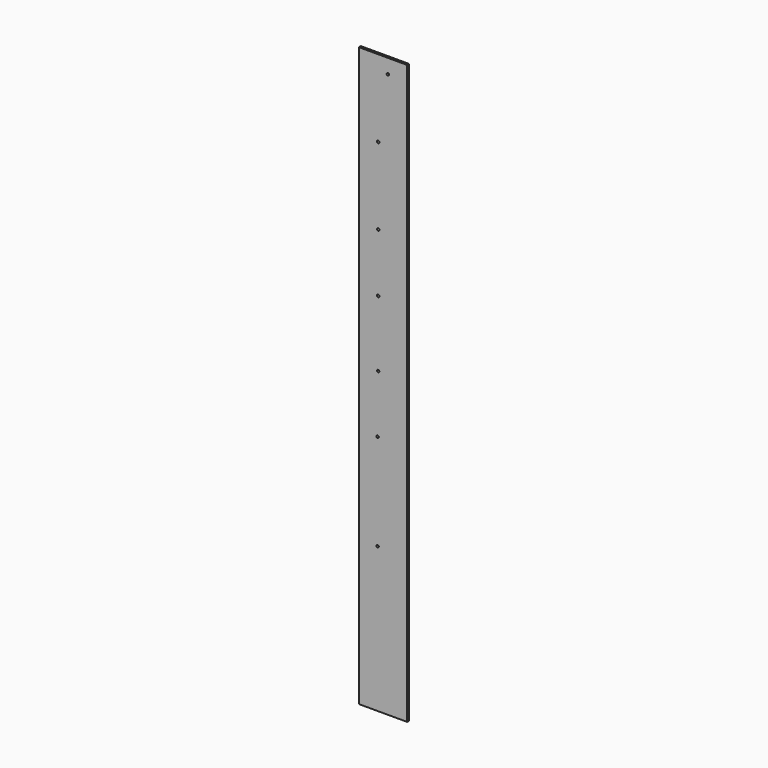
from build123d import *

# Parameters (mm, degrees)
F0_W     = 127
F0_H     = 1524
F1_DEPTH = 6.35
F3_D     = 6.35
F5_D     = 6.35
F7_D     = 6.35
F9_D     = 6.35
F11_D    = 6.35
F13_D    = 6.35
F15_D    = 6.35


with BuildPart() as f1:
    # F0 (on Front) → F1 (new body)
    with BuildSketch(Plane.XZ):
        with Locations((-54.04981, -21.105763)):
            Rectangle(F0_W, F0_H)
    extrude(amount=F1_DEPTH)

    # F3 (through all)
    with Locations(Plane.XZ.offset(6.35)):
        with Locations((-41.34981, 702.794237)):
            Hole(F3_D / 2)

    # F5 (through all)
    with Locations(Plane.XZ.offset(6.35)):
        with Locations((-66.74981, 537.694237)):
            Hole(F5_D / 2)

    # F7 (through all)
    with Locations(Plane.XZ.offset(6.35)):
        with Locations((-66.74981, 334.494237)):
            Hole(F7_D / 2)

    # F9 (through all)
    with Locations(Plane.XZ.offset(6.35)):
        with Locations((-66.74981, 180.506737)):
            Hole(F9_D / 2)

    # F11 (through all)
    with Locations(Plane.XZ.offset(6.35)):
        with Locations((-66.74981, 5.881737)):
            Hole(F11_D / 2)

    # F13 (through all)
    with Locations(Plane.XZ.offset(6.35)):
        with Locations((-68.33731, -146.678616)):
            Hole(F13_D / 2)

    # F15 (through all)
    with Locations(Plane.XZ.offset(6.35)):
        with Locations((-68.33731, -400.785135)):
            Hole(F15_D / 2)


solid = f1.part
